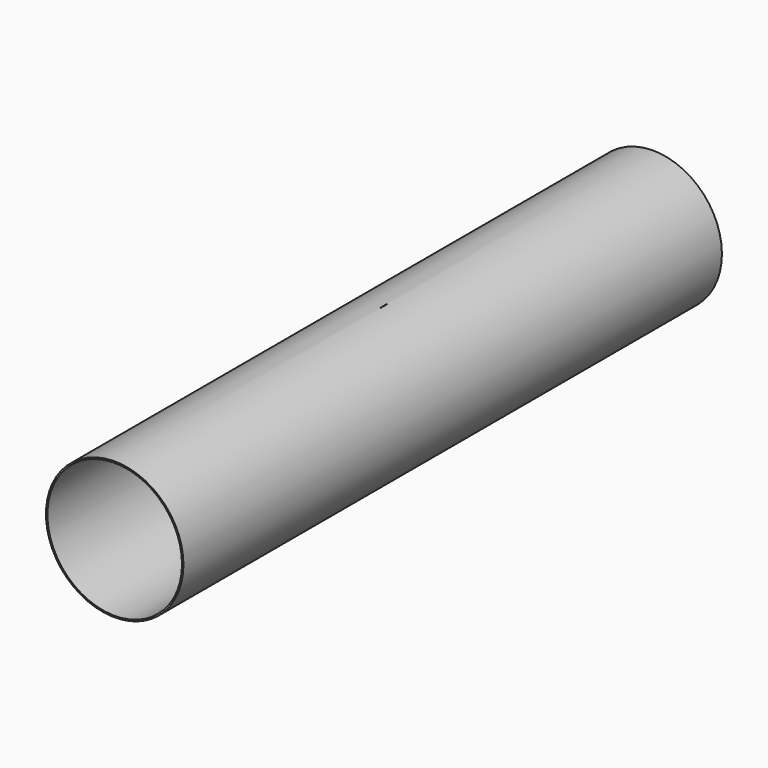
from build123d import *

# Parameters (mm, degrees)
F0_R     = 389.1534
F0_R_2   = 381
F1_DEPTH = 1905
F4_DEPTH = 126.238


with BuildPart() as f1:
    # F0 (on Front) → F1 (new body, symmetric)
    with BuildSketch(Plane.XZ):
        Circle(F0_R)
        Circle(F0_R_2, mode=Mode.SUBTRACT)
    extrude(amount=F1_DEPTH, both=True)

    # F3 (on offset) → F4 (cut)
    with BuildSketch(Plane.XY.offset(426.72)):
        with BuildLine():
            Line((0, -25.4), (0, 25.4))
            ThreePointArc((0, 25.4), (-1.27, 0), (0, -25.4))
        make_face()
        with BuildLine():
            ThreePointArc((0, -25.4), (1.27, 0), (0, 25.4))
            Line((0, 25.4), (0, -25.4))
        make_face()
    extrude(amount=-F4_DEPTH, mode=Mode.SUBTRACT)


solid = f1.part
